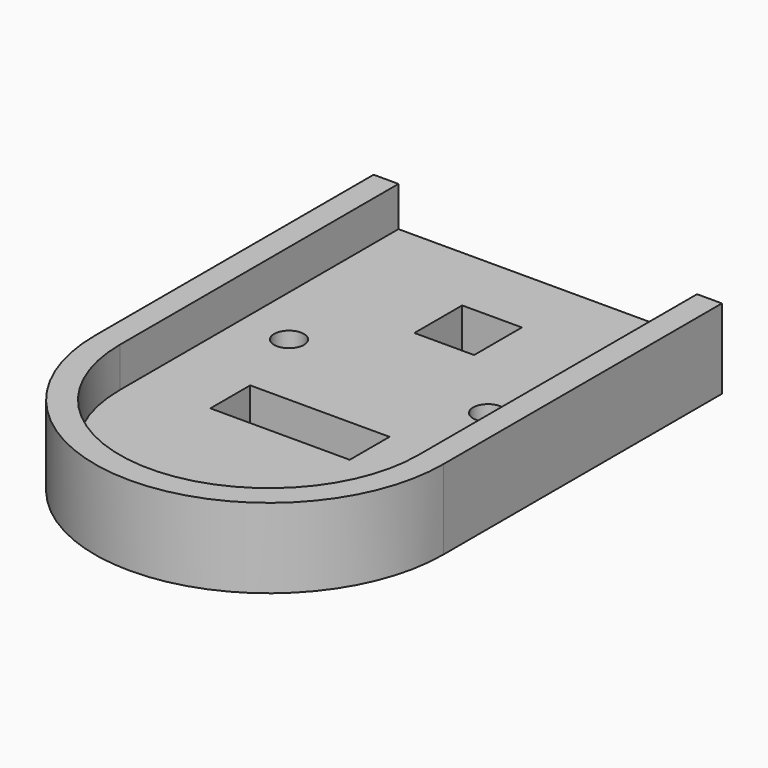
from build123d import *

# Parameters (mm, degrees)
PAD_DEPTH       = 8
POCKET_DEPTH    = 4
SKETCH002_R     = 1.5
SKETCH002_W     = 14
SKETCH002_H     = 5
SKETCH002_W_2   = 6
SKETCH002_H_2   = 6
POCKET001_DEPTH = 5


with BuildPart() as part:
    # Sketch → Pad (new body)
    with BuildSketch(Plane.XY):
        with BuildLine():
            Line((10, 80), (10, 80.00008))
            Line((10, 80.00008), (45, 80.00008))
            Line((45, 80.00008), (45, 45.00008))
            ThreePointArc((10, 45), (27.50004, 27.500049), (45, 45.00008))
            Line((10, 45), (10, 80))
        make_face()
    extrude(amount=PAD_DEPTH)

    # Sketch001 (on Face7 of Pad) → Pocket (cut)
    with BuildSketch(Plane.XY.offset(8)):
        with BuildLine():
            Line((12.5, 80.00008), (12.5, 45))
            ThreePointArc((12.5, 45), (27.50004, 30), (42.5, 45.00008))
            Line((42.5, 45.00008), (42.5, 80.00008))
            Line((42.5, 80.00008), (12.5, 80.00008))
        make_face()
    extrude(amount=-POCKET_DEPTH, mode=Mode.SUBTRACT)

    # Sketch002 (on Face9 of Pocket) → Pocket001 (cut)
    with BuildSketch(Plane.XY.offset(4)):
        with Locations((17.5, 60.00008)):
            Circle(SKETCH002_R)
        with Locations((37.5, 60.00008)):
            Circle(SKETCH002_R)
        with Locations((27, 49.50008)):
            Rectangle(SKETCH002_W, SKETCH002_H)
        with Locations((27.5, 70.00008)):
            Rectangle(SKETCH002_W_2, SKETCH002_H_2)
    extrude(amount=-POCKET001_DEPTH, mode=Mode.SUBTRACT)


solid = part.part
